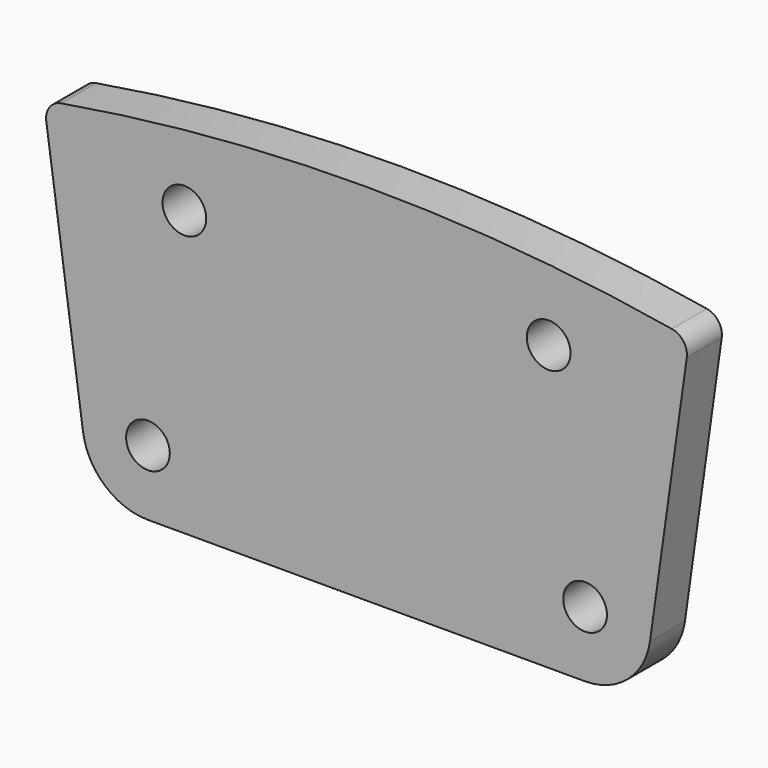
from build123d import *

# Parameters (mm, degrees)
F0_R     = 3
F1_DEPTH = 6


with BuildPart() as f1:
    # F0 (on Front) → F1 (new body)
    with BuildSketch(Plane.XZ):
        with BuildLine():
            Line((-30, -9), (30, -9))
            ThreePointArc((30, -9), (35.904531, -6.792386), (38.912413, -1.252558))
            Line((38.912413, -1.252558), (43.958317, 34.65092))
            ThreePointArc((43.958317, 34.65092), (43.500675, 36.474509), (41.901664, 37.463487))
            ThreePointArc((41.901664, 37.463487), (0, 41), (-41.901664, 37.463487))
            ThreePointArc((-41.901664, 37.463487), (-43.500675, 36.474509), (-43.958317, 34.65092))
            Line((-43.958317, 34.65092), (-38.912413, -1.252558))
            ThreePointArc((-38.912413, -1.252558), (-35.904531, -6.792386), (-30, -9))
        make_face()
        with Locations((-30, 0)):
            Circle(F0_R, mode=Mode.SUBTRACT)
        with Locations((30, 0)):
            Circle(F0_R, mode=Mode.SUBTRACT)
        with Locations((-25, 30)):
            Circle(F0_R, mode=Mode.SUBTRACT)
        with Locations((25, 30)):
            Circle(F0_R, mode=Mode.SUBTRACT)
    extrude(amount=F1_DEPTH)


solid = f1.part
